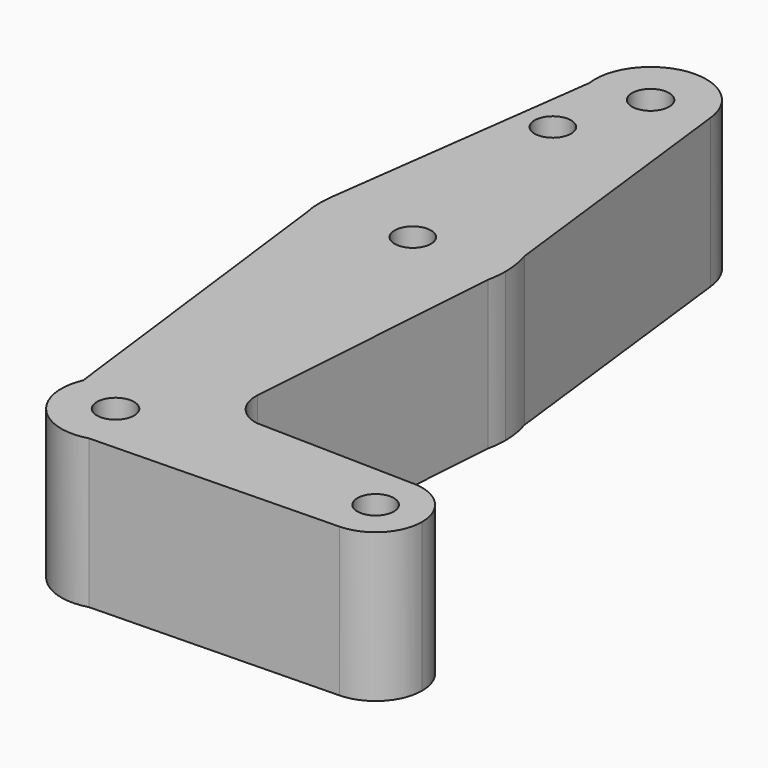
from build123d import *

# Parameters (mm, degrees)
F0_R     = 3.113344
F0_R_2   = 3.113341
F0_R_3   = 3.175
F0_R_4   = 3.113343
F1_DEPTH = 25.4


with BuildPart() as f1:
    # F0 (on Top) → F1 (new body)
    with BuildSketch(Plane.XY):
        with BuildLine():
            ThreePointArc((15.523532, -3.321986), (15.786888, -1.670264), (15.875, 0))
            ThreePointArc((15.875, 0), (15.670523, 2.539751), (15.062359, 5.014075))
            ThreePointArc((15.062359, 5.014075), (-1.498504, 15.804117), (-15.736312, 2.093829))
            ThreePointArc((-15.736312, 2.093829), (-15.862763, -0.623209), (-15.523539, -3.321951))
            ThreePointArc((-15.523539, -3.321951), (-1.8e-05, -15.875), (15.523532, -3.321986))
        make_face()
        Circle(F0_R, mode=Mode.SUBTRACT)
        with BuildLine():
            ThreePointArc((-15.736312, 2.093829), (-1.498504, 15.804117), (15.062359, 5.014075))
            Line((15.062359, 5.014075), (9.472198, 51.801542))
            ThreePointArc((9.472198, 51.801542), (9.51179, 51.301466), (9.525, 50.8))
            ThreePointArc((9.525, 50.8), (0.665006, 41.298243), (-9.432143, 49.473233))
            Line((-9.432143, 49.473233), (-15.736312, 2.093829))
        make_face()
        with Locations((-5.29085, 36.5252)):
            Circle(F0_R_2, mode=Mode.SUBTRACT)
        with BuildLine():
            Line((12.375646, -48.639175), (15.523532, -3.321986))
            ThreePointArc((15.523532, -3.321986), (-1.8e-05, -15.875), (-15.523539, -3.321951))
            Line((-15.523539, -3.321951), (-8.495912, -59.7936))
            ThreePointArc((-8.495912, -59.7936), (1.893103, -54.426187), (9.269192, -63.5))
            ThreePointArc((9.269192, -63.5), (7.414371, -69.062826), (2.592227, -72.399342))
            Line((2.592227, -72.399342), (44.631951, -71.435414))
            ThreePointArc((44.631951, -71.435414), (36.514353, -63.671517), (44.288918, -55.564135))
            Line((44.288918, -55.564135), (17.268347, -54.970898))
            ThreePointArc((17.268347, -54.970898), (13.617253, -52.735975), (12.375646, -48.639175))
        make_face()
        with BuildLine():
            ThreePointArc((9.525, 50.8), (9.51179, 51.301466), (9.472198, 51.801542))
            ThreePointArc((9.472198, 51.801542), (-1.164327, 60.253569), (-9.432143, 49.473233))
            ThreePointArc((-9.432143, 49.473233), (0.665006, 41.298243), (9.525, 50.8))
        make_face()
        with Locations((0, 50.8)):
            Circle(F0_R_3, mode=Mode.SUBTRACT)
        with BuildLine():
            ThreePointArc((9.269192, -63.5), (1.893103, -54.426187), (-8.495912, -59.7936))
            ThreePointArc((-8.495912, -59.7936), (-6.959853, -69.621958), (2.592227, -72.399342))
            ThreePointArc((2.592227, -72.399342), (7.414371, -69.062826), (9.269192, -63.5))
        make_face()
        with Locations((0, -63.5)):
            Circle(F0_R_3, mode=Mode.SUBTRACT)
        with BuildLine():
            Line((44.959223, -55.578851), (44.288918, -55.564135))
            ThreePointArc((44.288918, -55.564135), (36.514353, -63.671517), (44.631951, -71.435414))
            ThreePointArc((44.631951, -71.435414), (50.126625, -69.047958), (52.3875, -63.5))
            ThreePointArc((52.3875, -63.5), (50.239899, -58.070361), (44.959223, -55.578851))
        make_face()
        with Locations((44.45, -63.5)):
            Circle(F0_R_4, mode=Mode.SUBTRACT)
        with BuildLine():
            ThreePointArc((44.959223, -55.578851), (44.624226, -55.564412), (44.288918, -55.564135))
            Line((44.288918, -55.564135), (44.959223, -55.578851))
        make_face()
    extrude(amount=F1_DEPTH)


solid = f1.part
